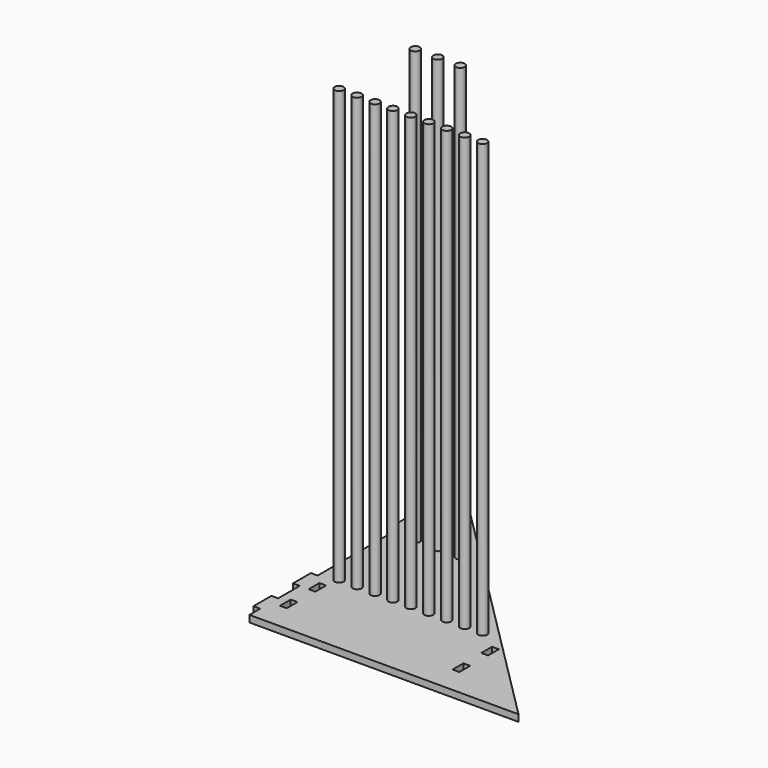
from build123d import *

# Parameters (mm, degrees)
F1_DEPTH = 19.05
F3_DEPTH = 1225.55
F4_W     = 19.05
F4_H     = 38.1
F5_DEPTH = 25.4
F6_W     = 63.5
F6_H     = 19.05
F7_DEPTH = 19.05


with BuildPart() as f1:
    # F0 (on Top) → F1 (new body)
    with BuildSketch(Plane.XY):
        Polygon((-16.216737, -254), (-270.216737, 0), (-270.216737, -254), align=None)
        Polygon((-16.216737, -254), (-270.216737, -254), (-270.216737, -508), (237.783263, -508), align=None)
        Polygon((237.783263, -508), (-270.216737, -508), (-270.216737, -762), (491.783263, -762), align=None)
    extrude(amount=F1_DEPTH)

    # F2 (on face) → F3 (join)
    with BuildSketch(Plane.XY.offset(19.05)):
        with BuildLine():
            ThreePointArc((-206.716737, -508), (-219.416737, -495.3), (-232.116737, -508))
            Line((-232.116737, -508), (-206.716737, -508))
        make_face()
        with BuildLine():
            ThreePointArc((199.683263, -508), (186.983263, -495.3), (174.283263, -508))
            Line((174.283263, -508), (199.683263, -508))
        make_face()
        with BuildLine():
            Line((199.683263, -508), (174.283263, -508))
            ThreePointArc((174.283263, -508), (186.983263, -520.7), (199.683263, -508))
        make_face()
        with BuildLine():
            ThreePointArc((148.883263, -508), (136.183263, -495.3), (123.483263, -508))
            Line((123.483263, -508), (148.883263, -508))
        make_face()
        with BuildLine():
            Line((148.883263, -508), (123.483263, -508))
            ThreePointArc((123.483263, -508), (136.183263, -520.7), (148.883263, -508))
        make_face()
        with BuildLine():
            ThreePointArc((98.083263, -508), (85.383263, -495.3), (72.683263, -508))
            Line((72.683263, -508), (98.083263, -508))
        make_face()
        with BuildLine():
            Line((98.083263, -508), (72.683263, -508))
            ThreePointArc((72.683263, -508), (85.383263, -520.7), (98.083263, -508))
        make_face()
        with BuildLine():
            ThreePointArc((47.283263, -508), (34.583263, -495.3), (21.883263, -508))
            Line((21.883263, -508), (47.283263, -508))
        make_face()
        with BuildLine():
            Line((47.283263, -508), (21.883263, -508))
            ThreePointArc((21.883263, -508), (34.583263, -520.7), (47.283263, -508))
        make_face()
        with BuildLine():
            ThreePointArc((-3.516737, -508), (-16.216737, -495.3), (-28.916737, -508))
            Line((-28.916737, -508), (-3.516737, -508))
        make_face()
        with BuildLine():
            Line((-3.516737, -508), (-28.916737, -508))
            ThreePointArc((-28.916737, -508), (-16.216737, -520.7), (-3.516737, -508))
        make_face()
        with BuildLine():
            ThreePointArc((-54.316737, -508), (-67.016737, -495.3), (-79.716737, -508))
            Line((-79.716737, -508), (-54.316737, -508))
        make_face()
        with BuildLine():
            Line((-54.316737, -508), (-79.716737, -508))
            ThreePointArc((-79.716737, -508), (-67.016737, -520.7), (-54.316737, -508))
        make_face()
        with BuildLine():
            ThreePointArc((-105.116737, -508), (-117.816737, -495.3), (-130.516737, -508))
            Line((-130.516737, -508), (-105.116737, -508))
        make_face()
        with BuildLine():
            Line((-105.116737, -508), (-130.516737, -508))
            ThreePointArc((-130.516737, -508), (-117.816737, -520.7), (-105.116737, -508))
        make_face()
        with BuildLine():
            ThreePointArc((-155.916737, -508), (-168.616737, -495.3), (-181.316737, -508))
            Line((-181.316737, -508), (-155.916737, -508))
        make_face()
        with BuildLine():
            Line((-155.916737, -508), (-181.316737, -508))
            ThreePointArc((-181.316737, -508), (-168.616737, -520.7), (-155.916737, -508))
        make_face()
        with BuildLine():
            Line((-206.716737, -508), (-232.116737, -508))
            ThreePointArc((-232.116737, -508), (-219.416737, -520.7), (-206.716737, -508))
        make_face()
        with BuildLine():
            ThreePointArc((-194.016737, -254), (-206.716737, -241.3), (-219.416737, -254))
            Line((-219.416737, -254), (-194.016737, -254))
        make_face()
        with BuildLine():
            ThreePointArc((-67.016737, -254), (-79.716737, -241.3), (-92.416737, -254))
            Line((-92.416737, -254), (-67.016737, -254))
        make_face()
        with BuildLine():
            Line((-67.016737, -254), (-92.416737, -254))
            ThreePointArc((-92.416737, -254), (-79.716737, -266.7), (-67.016737, -254))
        make_face()
        with BuildLine():
            ThreePointArc((-130.516737, -254), (-143.216737, -241.3), (-155.916737, -254))
            Line((-155.916737, -254), (-130.516737, -254))
        make_face()
        with BuildLine():
            Line((-130.516737, -254), (-155.916737, -254))
            ThreePointArc((-155.916737, -254), (-143.216737, -266.7), (-130.516737, -254))
        make_face()
        with BuildLine():
            Line((-194.016737, -254), (-219.416737, -254))
            ThreePointArc((-219.416737, -254), (-206.716737, -266.7), (-194.016737, -254))
        make_face()
    extrude(amount=F3_DEPTH)

    # F4 (on face) → F5 (cut)
    with BuildSketch(Plane.XY):
        with Locations((-235.291737, -565.15)):
            Rectangle(F4_W, F4_H)
        with Locations((-235.291737, -666.75)):
            Rectangle(F4_W, F4_H)
        with Locations((253.658263, -565.15)):
            Rectangle(F4_W, F4_H)
        with Locations((253.658263, -666.75)):
            Rectangle(F4_W, F4_H)
    extrude(amount=F5_DEPTH, mode=Mode.SUBTRACT)

    # F6 (on face) → F7 (join)
    with BuildSketch(Plane(origin=(-270.216737, 0, 0), x_dir=(0, -1, 0), z_dir=(-1, 0, 0))):
        with Locations((552.45, 9.525)):
            Rectangle(F6_W, F6_H)
        with Locations((692.15, 9.525)):
            Rectangle(F6_W, F6_H)
        with Locations((69.85, 9.525)):
            Rectangle(F6_W, F6_H)
        with Locations((209.55, 9.525)):
            Rectangle(F6_W, F6_H)
    extrude(amount=F7_DEPTH)


solid = f1.part
